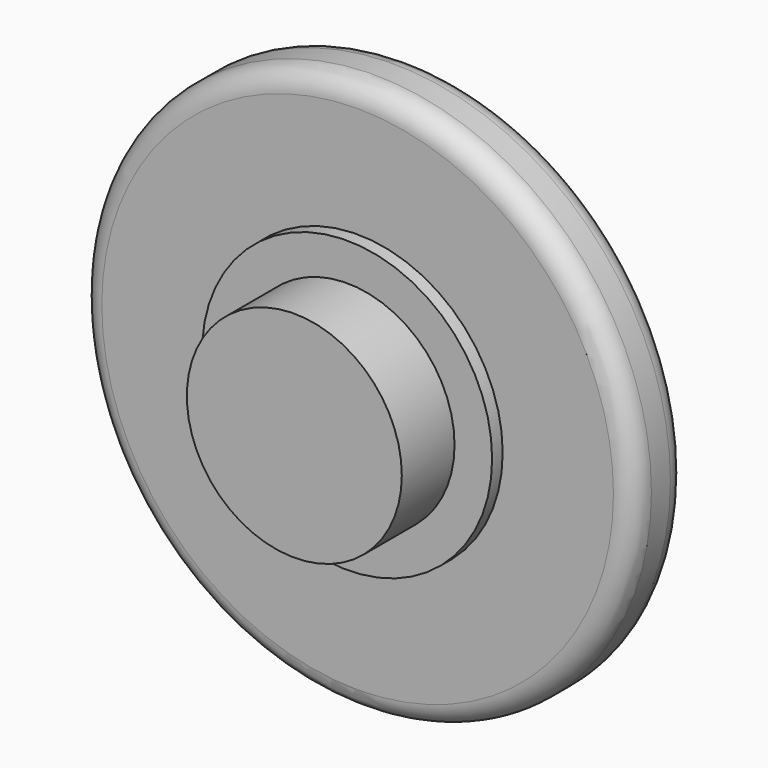
from build123d import *

# Parameters (mm, degrees)
F0_R     = 10.5
F0_R_2   = 5.5
F2_DEPTH = 2.5
F1_R     = 5.5
F1_R_2   = 4.075
F3_DEPTH = 3
F4_DEPTH = 5.5
F5_R     = 0.8


with BuildPart() as f2:
    # F0 (on Front) → F2 (new body)
    with BuildSketch(Plane.XZ):
        Circle(F0_R)
        Circle(F0_R_2, mode=Mode.SUBTRACT)
    extrude(amount=F2_DEPTH)

    # F1 (on face) → F3 (join)
    with BuildSketch(Plane.XZ):
        Circle(F1_R)
        Circle(F1_R_2, mode=Mode.SUBTRACT)
    extrude(amount=F3_DEPTH)

    # F1 (on face) → F4 (join)
    with BuildSketch(Plane.XZ):
        Circle(F1_R_2)
    extrude(amount=F4_DEPTH)

    # F5
    f5_edges = [f2.edges().sort_by_distance(p)[0] for p in [
        (-10.5, 0, 0),
        (-10.5, -2.5, 0),
    ]]
    fillet(f5_edges, radius=F5_R)


solid = f2.part
